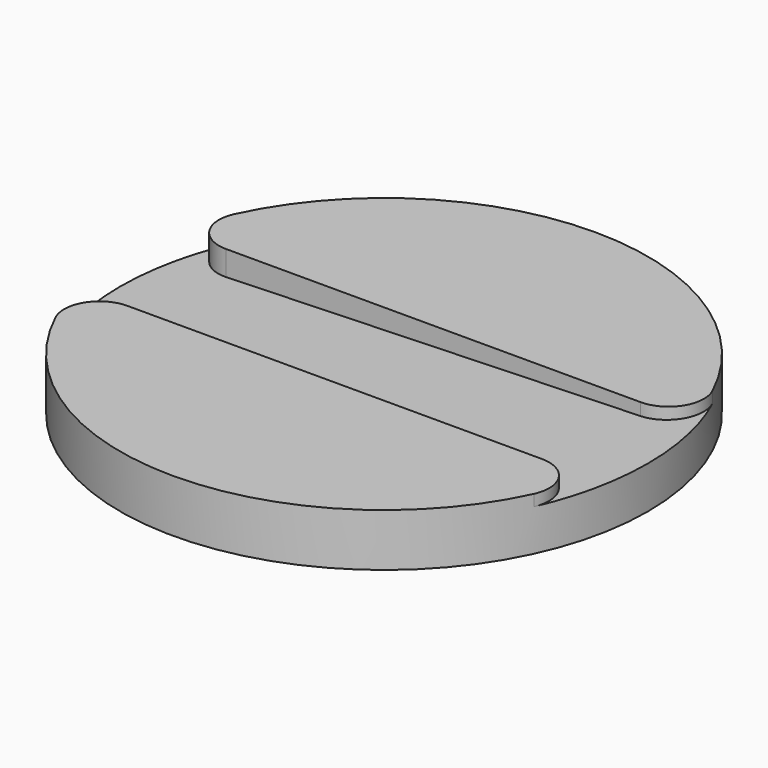
from build123d import *

# Parameters (mm, degrees)
F0_R     = 15
F1_DEPTH = 3
F3_DEPTH = 3.5
F4_R     = 2


with BuildPart() as f1:
    # F0 (on Top) → F1 (new body)
    with BuildSketch(Plane.XY):
        Circle(F0_R)
    extrude(amount=F1_DEPTH)

    # F2 (on Front) → F3 (cut, symmetric)
    with BuildSketch(Plane.XZ):
        Polygon((15, 3), (-15, 3), (-15, 1.5), (15, 2.4), align=None)
    extrude(amount=F3_DEPTH, both=True, mode=Mode.SUBTRACT)

    # F4
    f4_edges = [f1.edges().sort_by_distance(p)[0] for p in [
        (-14.585952, 3.5, 2.256211),
        (14.585952, 3.5, 2.693789),
        (14.585952, -3.5, 2.693789),
        (-14.585952, -3.5, 2.256211),
    ]]
    fillet(f4_edges, radius=F4_R)


solid = f1.part
